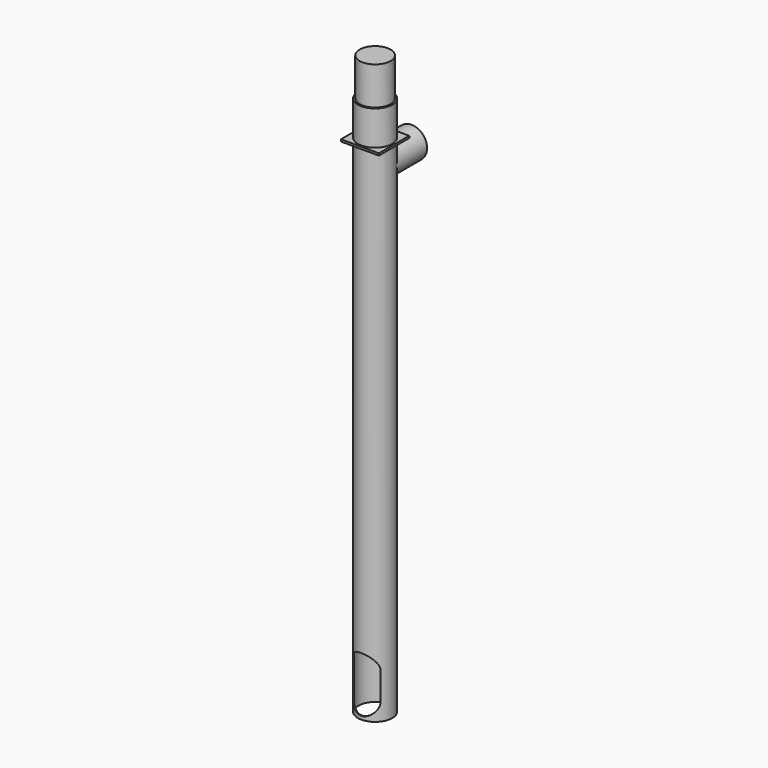
from build123d import *

# Parameters (mm, degrees)
F1_R      = 25
F1_R_2    = 24
F4_DEPTH  = 27.5
F5_R      = 25
F6_DEPTH  = 50
F7_R      = 22.5
F8_DEPTH  = 55
F9_R      = 21.5
F10_DEPTH = 20
F9_R_2    = 22.5
F11_DEPTH = 38.5
F13_DEPTH = 38.5


with BuildPart() as f2:
    # F2: sweep along a path in F0
    with BuildLine(Plane.YZ) as f2_path:
        Line((0, 0), (0, 730))
    # F1 (on Top) → F2 (sweep)
    with BuildSketch(Plane.XY):
        Circle(F1_R)
        Circle(F1_R_2, mode=Mode.SUBTRACT)
    sweep(path=f2_path.line)

    # F3 (on Right) → F4 (join, symmetric)
    with BuildSketch(Plane.YZ):
        Polygon((-27.5, 730), (-25, 730), (25, 730), (27.5, 730), (27.5, 733), (-27.5, 733), align=None)
    extrude(amount=F4_DEPTH, both=True)

    # F5 (on face) → F6 (join)
    with BuildSketch(Plane.XY.offset(733)):
        Circle(F5_R)
    extrude(amount=F6_DEPTH)

    # F7 (on face) → F8 (join)
    with BuildSketch(Plane.XY.offset(783)):
        Circle(F7_R)
    extrude(amount=F8_DEPTH)

    # F9 (on face) → F10 (cut)
    with BuildSketch(Plane(origin=(0, 27.5, 0), x_dir=(-1, 0, 0), z_dir=(0, 1, 0))):
        with Locations((0, 700)):
            Circle(F9_R)
    extrude(amount=-F10_DEPTH, mode=Mode.SUBTRACT)

    # F9 (on face) → F11 (join, symmetric)
    with BuildSketch(Plane(origin=(0, 27.5, 0), x_dir=(-1, 0, 0), z_dir=(0, 1, 0))):
        with Locations((0, 700)):
            Circle(F9_R_2)
        with Locations((0, 700)):
            Circle(F9_R, mode=Mode.SUBTRACT)
    extrude(amount=F11_DEPTH, both=True)

    # F12 (on face) → F13 (cut)
    with BuildSketch(Plane.XZ.offset(27.5)):
        with BuildLine():
            Line((-20, 65), (-20, 25))
            ThreePointArc((-20, 25), (0, 5), (20, 25))
            Line((20, 25), (20, 65))
            ThreePointArc((20, 65), (0, 85), (-20, 65))
        make_face()
    extrude(amount=-F13_DEPTH, mode=Mode.SUBTRACT)


solid = f2.part
